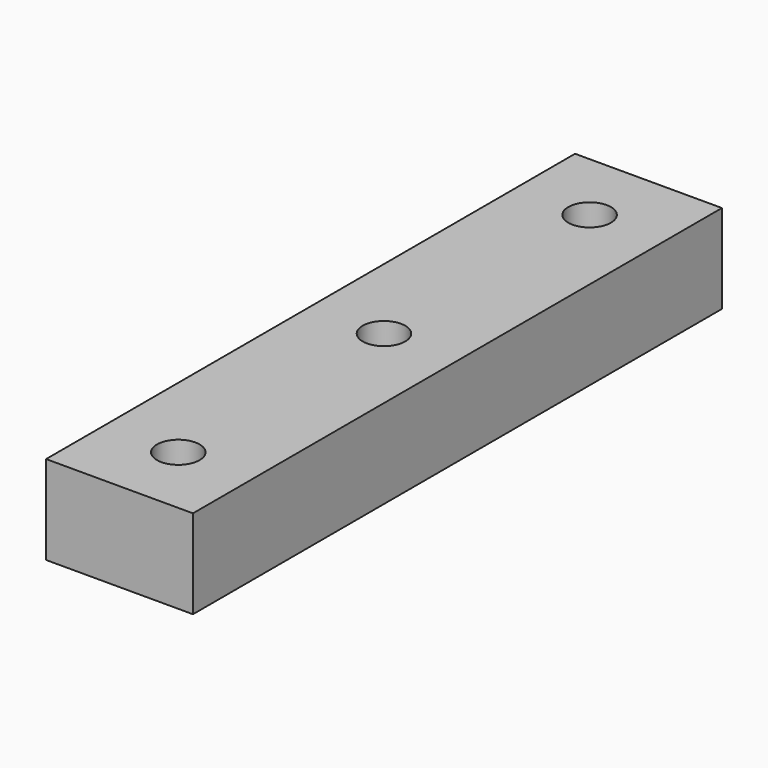
from build123d import *

# Parameters (mm, degrees)
SKETCH010_R      = 2.9
EXTRUDE010_DEPTH = 20
SKETCH009_W      = 19.993101
SKETCH009_H      = 12.095101
EXTRUDE009_DEPTH = 90


with BuildPart() as tornillos003:
    # Sketch010 (on Face4 of Extrude009) → Extrude010 (new body)
    with BuildSketch(Plane.XY.offset(20.871752)):
        with Locations((10, -80)):
            Circle(SKETCH010_R)
        with Locations((10, -45.010692)):
            Circle(SKETCH010_R)
        with Locations((10, -10.021384)):
            Circle(SKETCH010_R)
    extrude(amount=EXTRUDE010_DEPTH)


with BuildPart() as tornillos003_1:
    # Extrude010 placement: moved
    add(tornillos003.part.moved(Location((0, 0, -15))))


with BuildPart() as obj1:
    # Sketch009 → Extrude009 (new body)
    with BuildSketch(Plane.XZ):
        with Locations((9.99655, 14.824202)):
            Rectangle(SKETCH009_W, SKETCH009_H)
    extrude(amount=EXTRUDE009_DEPTH)

    # Cut003: cut Tornillos003
    add(tornillos003_1.part, mode=Mode.SUBTRACT)


with BuildPart() as obj1_1:
    # Cut003 placement: moved
    add(obj1.part.moved(Location((0, 90, 6.9))))


solid = obj1_1.part
